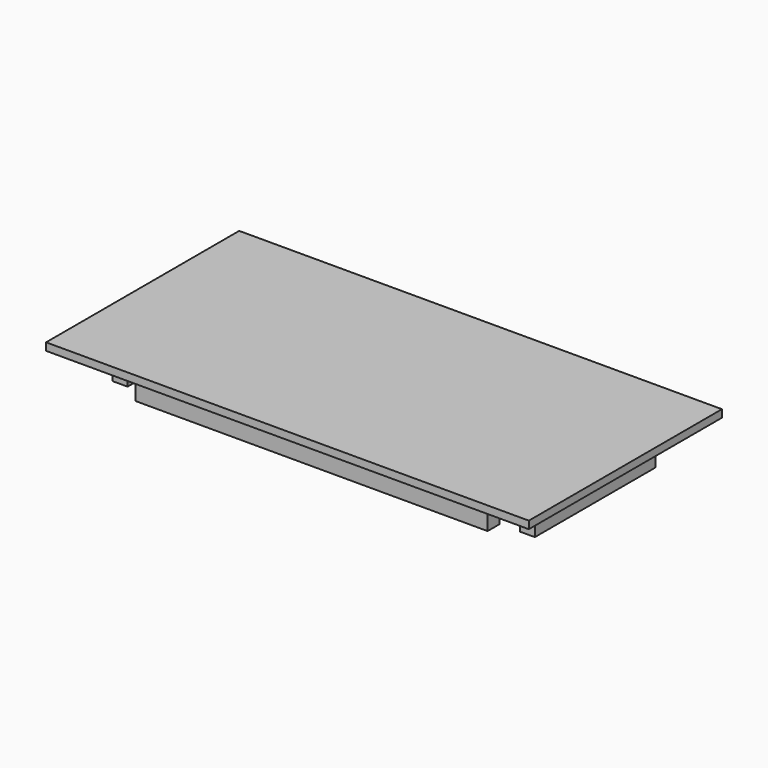
from build123d import *

# Parameters (mm, degrees)
F0_W     = 1219.2
F0_H     = 609.6
F1_DEPTH = 19.05
F2_W     = 889
F2_H     = 38.1
F2_W_2   = 38.1
F2_H_2   = 381
F3_DEPTH = 88.9


with BuildPart() as f1:
    # F0 (on Top) → F1 (new body)
    with BuildSketch(Plane.XY):
        Rectangle(F0_W, F0_H)
    extrude(amount=F1_DEPTH)

    # F2 (on face) → F3 (join)
    with BuildSketch(Plane(origin=(0, 0, 0), x_dir=(1, 0, 0), z_dir=(0, 0, -1))):
        with Locations((0, 209.55)):
            Rectangle(F2_W, F2_H)
        with Locations((0, -209.55)):
            Rectangle(F2_W, F2_H)
        with Locations((-514.35, 0)):
            Rectangle(F2_W_2, F2_H_2)
        with Locations((514.35, 0)):
            Rectangle(F2_W_2, F2_H_2)
    extrude(amount=F3_DEPTH)


solid = f1.part
